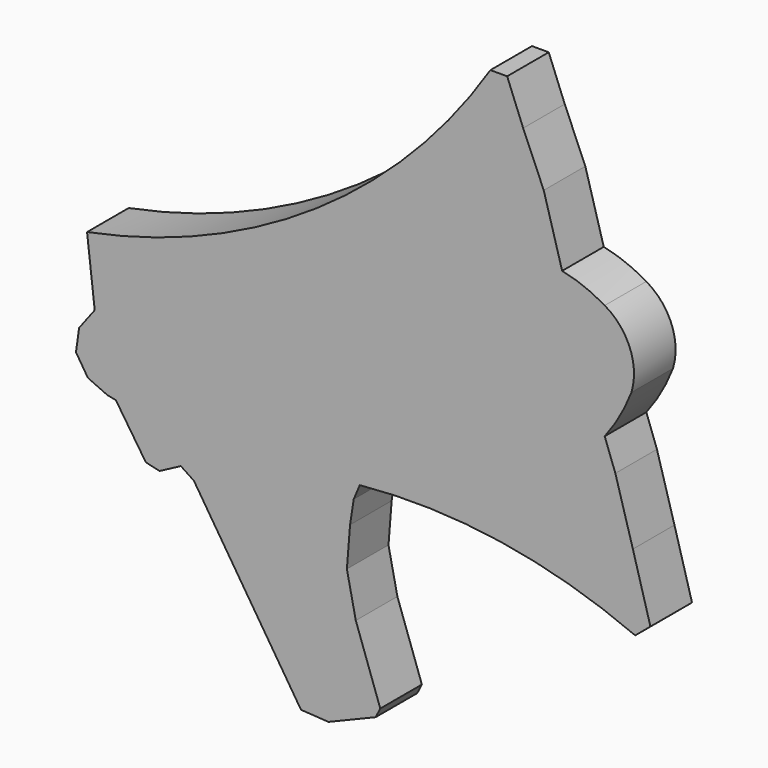
from build123d import *

# Parameters (mm, degrees)
PAD_DEPTH = 3.175


with BuildPart() as part:
    # Sketch → Pad (new body)
    with BuildSketch(Plane.XZ):
        with BuildLine():
            ThreePointArc((-17.018, 2.487326), (-2.996285, 8.327774), (7.609137, 19.201797))
            Line((7.609137, 19.201797), (8.633146, 19.201797))
            Line((8.633146, 19.201797), (9.610686, 16.733412))
            Line((9.610686, 16.733412), (10.867529, 13.800783))
            Line((10.867529, 13.800783), (11.991159, 9.834628))
            ThreePointArc((14.591504, 8.819976), (13.334049, 9.436779), (11.991159, 9.834628))
            ThreePointArc((16.220824, 4.677015), (16.131692, 7.033827), (14.591504, 8.819976))
            ThreePointArc((14.5915, 1.790975), (15.512541, 3.173938), (16.220824, 4.677015))
            Line((15.24005, 0.007885), (14.5915, 1.790975))
            Line((16.310692, -3.716085), (15.24005, 0.007885))
            Line((17.381336, -7.533156), (16.310692, -3.716085))
            Line((16.453487, -8.310298), (17.381336, -7.533156))
            ThreePointArc((16.453487, -8.310298), (8.209274, -5.944046), (-0.364355, -5.701006))
            Line((-0.734469, -6.577293), (-0.364355, -5.701006))
            Line((-0.958348, -8.024061), (-0.734469, -6.577293))
            Line((-1.152321, -10.465385), (-0.958348, -8.024061))
            Line((-0.608809, -13.055986), (-1.152321, -10.465385))
            Line((0.885784, -17.303194), (-0.608809, -13.055986))
            Line((0.602916, -17.861423), (0.885784, -17.303194))
            Line((-2.274875, -19.050779), (0.602916, -17.861423))
            Line((-3.953837, -18.944079), (-2.274875, -19.050779))
            Line((-10.490349, -8.764157), (-3.953837, -18.944079))
            Line((-11.290691, -8.230595), (-10.490349, -8.764157))
            Line((-12.586489, -8.916603), (-11.290691, -8.230595))
            Line((-13.424941, -8.726046), (-12.586489, -8.916603))
            Line((-15.254302, -5.982009), (-13.424941, -8.726046))
            Line((-15.787862, -5.867674), (-15.254302, -5.982009))
            Line((-16.969324, -5.334111), (-15.787862, -5.867674))
            Line((-17.693443, -4.190763), (-16.969324, -5.334111))
            Line((-17.502886, -2.818745), (-17.693443, -4.190763))
            Line((-16.550095, -1.561061), (-17.502886, -2.818745))
            Line((-17.018, 2.487326), (-16.550095, -1.561061))
        make_face()
    extrude(amount=PAD_DEPTH)


solid = part.part
